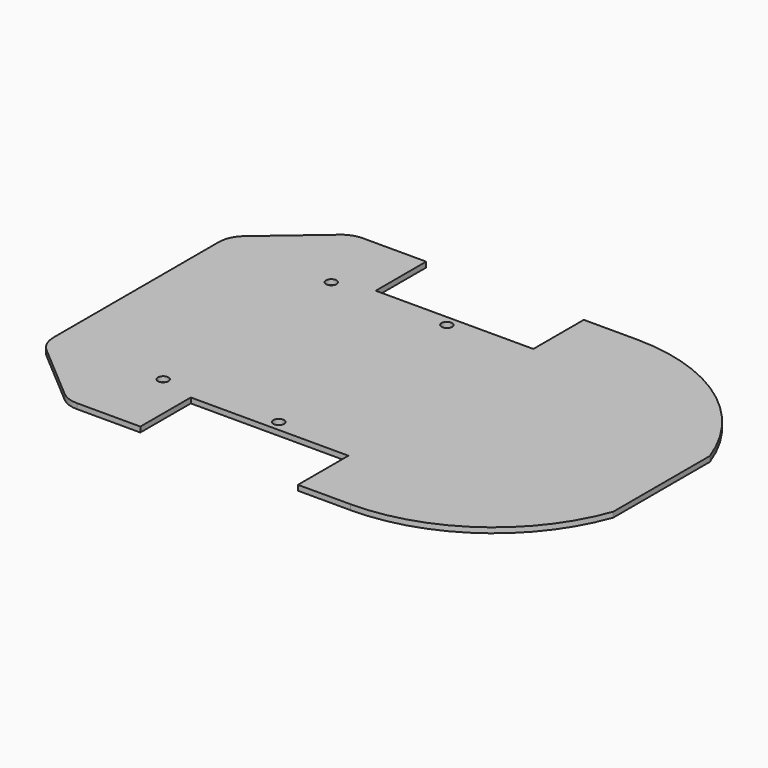
from build123d import *

# Parameters (mm, degrees)
F0_R     = 1
F1_DEPTH = 1
F2_R     = 5.08
F3_R     = 5.08
F4_R     = 5.08
F5_R     = 5.08


with BuildPart() as f1:
    # F0 (on Top) → F1 (new body)
    with BuildSketch(Plane.XY):
        with BuildLine():
            Line((0, 22), (0, 0))
            Line((0, 0), (0, -22))
            Line((0, -22), (14.035148, -34))
            Line((14.035148, -34), (27.999999, -34))
            Line((27.999999, -34), (27.999999, -22))
            Line((27.999999, -22), (57.999999, -22))
            Line((57.999999, -22), (57.999999, -34))
            Line((57.999999, -34), (67.999999, -34))
            ThreePointArc((67.999999, -34), (87.562333, -27.808544), (100, -11.489123))
            Line((100, -11.489123), (100, 11.489123))
            ThreePointArc((100, 11.489123), (87.562333, 27.808544), (67.999999, 34))
            Line((67.999999, 34), (57.999999, 34))
            Line((57.999999, 34), (57.999999, 22))
            Line((57.999999, 22), (27.999999, 22))
            Line((27.999999, 22), (27.999999, 34))
            Line((27.999999, 34), (14.035148, 34))
            Line((14.035148, 34), (0, 22))
        make_face()
        with Locations((21.140715, -20)):
            Circle(F0_R, mode=Mode.SUBTRACT)
        with Locations((43.140715, -20)):
            Circle(F0_R, mode=Mode.SUBTRACT)
        with Locations((21.140715, 20)):
            Circle(F0_R, mode=Mode.SUBTRACT)
        with Locations((43.140715, 20)):
            Circle(F0_R, mode=Mode.SUBTRACT)
    extrude(amount=F1_DEPTH)

    # F2
    f2_edges = [f1.edges().sort_by_distance(p)[0] for p in [
        (14.035148, 34, 0.5),
    ]]
    fillet(f2_edges, radius=F2_R)

    # F3
    f3_edges = [f1.edges().sort_by_distance(p)[0] for p in [
        (0, 22, 0.5),
    ]]
    fillet(f3_edges, radius=F3_R)

    # F4
    f4_edges = [f1.edges().sort_by_distance(p)[0] for p in [
        (0, -22, 0.5),
    ]]
    fillet(f4_edges, radius=F4_R)

    # F5
    f5_edges = [f1.edges().sort_by_distance(p)[0] for p in [
        (14.035148, -34, 0.5),
    ]]
    fillet(f5_edges, radius=F5_R)


solid = f1.part
